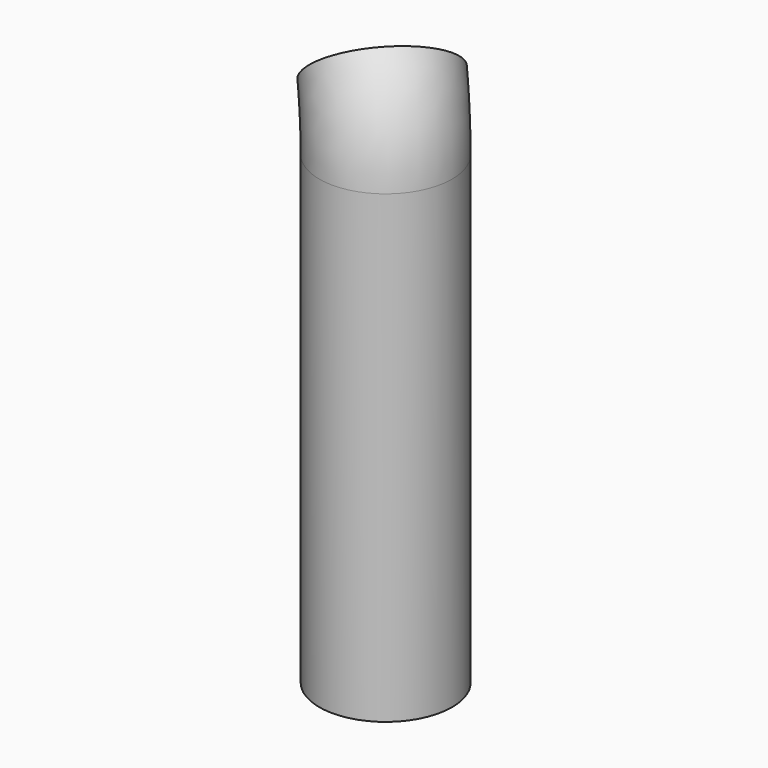
from build123d import *

# Parameters (mm, degrees)
F0_R      = 5
F2_ANGLE  = 45
F2_FACE_R = 5
F4_DEPTH  = 35


with BuildPart() as f2:
    # F0 (on Top) → F2 (revolve)
    with BuildSketch(Plane.XY):
        Circle(F0_R)
    revolve(axis=Axis((-4.5, 4.5, 0), (-0.707107, -0.707107, 0)), revolution_arc=F2_ANGLE)

    # F2_face (on face) → F4 (join)
    with BuildSketch(Plane(origin=(0, 0, 0), x_dir=(1, 0, 0), z_dir=(0, 0, -1))):
        Circle(F2_FACE_R)
    extrude(amount=F4_DEPTH)


solid = f2.part
